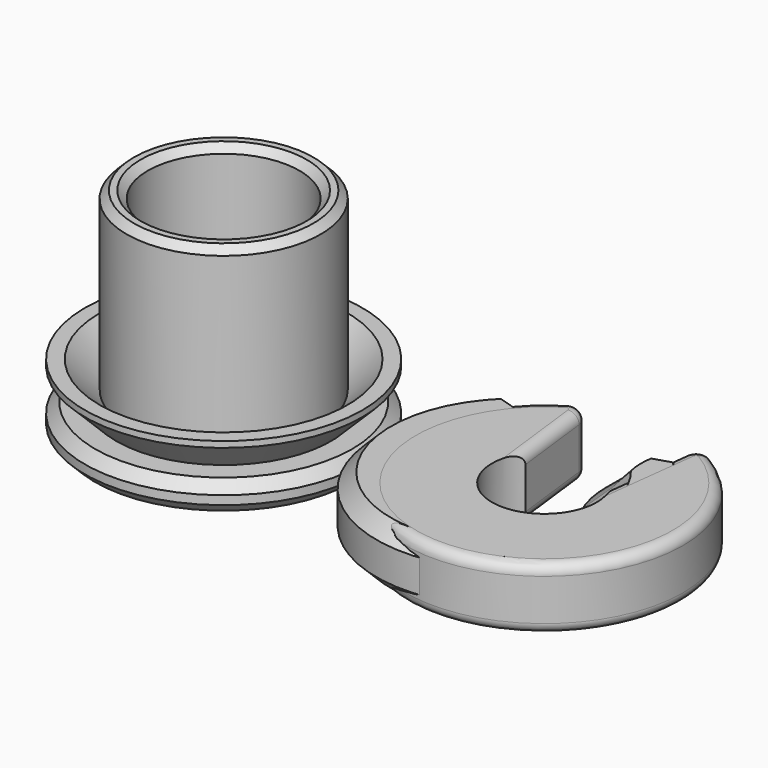
from build123d import *

# Parameters (mm, degrees)
PAD_DEPTH = 4.25
FILLET_R  = 0.7


with BuildPart() as bushing_insert:
    # Sketch → Revolution (revolve)
    with BuildSketch(Plane.XZ):
        Polygon((-8.815, 0), (-6.2, 0), (-5.2, 1), (-5.2, 14.262107), (-5.7, 14.762107), (-6.15, 14.762107), (-6.65, 14.262107), (-6.65, 2.707107), (-8.515, 4.572107), (-9.515, 4.572107), (-9.515, 4.157893), (-7.357107, 2), (-8.815, 2), (-9.515, 1.3), (-9.515, 0.7), align=None)
    revolve(axis=Axis((0, 0, 0), (0, 0, 1)))


with BuildPart() as body:
    # Sketch003 → Revolution001 (revolve)
    with BuildSketch(Plane.XZ):
        Polygon((-8.515, 0), (-9.515, 1), (-9.515, 3.25), (-8.515, 4.25), (-14.515, 4.25), (-14.515, 0), align=None)
    revolve(axis=Axis((0, 0, 0), (0, 0, 1)))


with BuildPart() as snapring:
    # AdditivePipe: sweep along a path in Sketch002
    with BuildLine(Plane.XY) as additivepipe_path:
        ThreePointArc((-2.221938, 5), (-2.3572, 3.630556), (-2.75776, 2.314035))
        ThreePointArc((-2.75776, 2.314035), (0, -3.6), (2.75776, 2.314035))
        ThreePointArc((2.75776, 2.314035), (2.3572, 3.630556), (2.221938, 5))
    # Sketch001 → AdditivePipe (sweep)
    with BuildSketch(Plane.XZ):
        Polygon((-3.6, 0), (-3.6, 2), (-5.2, 3.25), (-6.2, 4.25), (-8.515, 4.25), (-9.515, 3.25), (-9.515, 1), (-8.515, 0), align=None)
    sweep(path=additivepipe_path.line)

    # Cut: cut Body
    add(body.part, mode=Mode.SUBTRACT)


with BuildPart() as snapring_1:
    # Cut placement: moved
    add(snapring.part.moved(Location((20, 0, 0))))


with BuildPart() as snapring_v2:
    # Sketch004 → Pad (new body)
    with BuildSketch(Plane.XY):
        with BuildLine():
            ThreePointArc((-2.948947, 2.064875), (0, -3.6), (2.948947, 2.064875))
            Line((2.948947, 2.064875), (3.6, 7.476759))
            ThreePointArc((4.7575, 8.240232), (4.00183, 8.126724), (3.6, 7.476759))
            ThreePointArc((-4.7575, 8.240232), (0, -9.515), (4.7575, 8.240232))
            ThreePointArc((-3.6, 7.476759), (-4.00183, 8.126724), (-4.7575, 8.240232))
            Line((-2.948947, 2.064875), (-3.6, 7.476759))
        make_face()
    extrude(amount=PAD_DEPTH)

    # Fillet
    fillet_edges = [snapring_v2.edges().sort_by_distance(p)[0] for p in [
        (4.00183, 8.126724, 4.25),
        (0, -9.515, 4.25),
        (3.274474, 4.770817, 4.25),
        (-3.274474, 4.770817, 4.25),
        (-4.00183, 8.126724, 4.25),
        (4.00183, 8.126724, 0),
        (0, -9.515, 0),
        (0, -3.6, 0),
        (3.274474, 4.770817, 0),
        (-3.274474, 4.770817, 0),
        (-4.00183, 8.126724, 0),
    ]]
    fillet(fillet_edges, radius=FILLET_R)


with BuildPart() as snapring_v2_1:
    # Body003 placement: moved
    add(snapring_v2.part.moved(Location((22, 0, 0))))


solid = Compound([bushing_insert.part, snapring_1.part, snapring_v2_1.part])
